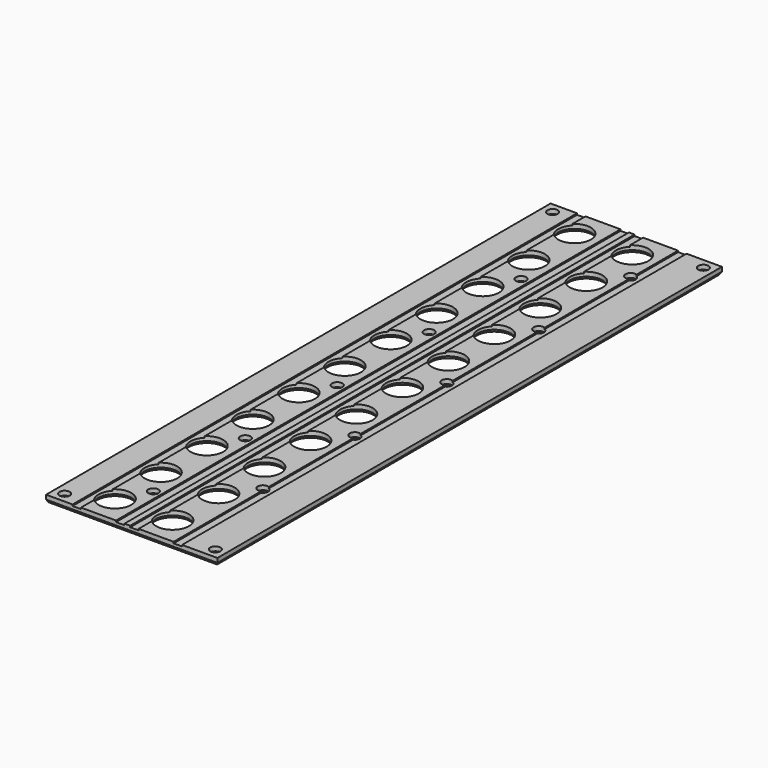
from build123d import *

# Parameters (mm, degrees)
F0_W     = 49.8404
F0_H     = 183.4444
F0_R     = 1.5
F1_DEPTH = 2
F2_R     = 4.75
F2_R_2   = 1.4732
F2_R_3   = 1.5
F3_DEPTH = 25
F4_W     = 2.45
F4_H     = 183.4444
F5_DEPTH = 0.4
F6_SIZE2 = 0.75
F6_SIZE  = 0.4330127019


with BuildPart() as f1:
    # F0 (on Top) → F1 (new body)
    with BuildSketch(Plane.XY):
        with Locations((21.9202, 88.7222)):
            Rectangle(F0_W, F0_H)
        Circle(F0_R, mode=Mode.SUBTRACT)
        with Locations((43.8404, 0)):
            Circle(F0_R, mode=Mode.SUBTRACT)
        with Locations((0, 177.4444)):
            Circle(F0_R, mode=Mode.SUBTRACT)
        with Locations((43.8404, 177.4444)):
            Circle(F0_R, mode=Mode.SUBTRACT)
    extrude(amount=-F1_DEPTH)

    # F2 (on face) → F3 (cut)
    with BuildSketch(Plane.XY):
        with Locations((10.5, 21.86895)):
            Circle(F2_R)
        with Locations((10.5, 5.15565)):
            Circle(F2_R)
        with Locations((27.264, 5.15565)):
            Circle(F2_R)
        with Locations((27.264, 21.86895)):
            Circle(F2_R)
        with Locations((10.5, 55.29555)):
            Circle(F2_R)
        with Locations((27.264, 55.29555)):
            Circle(F2_R)
        with Locations((10.5, 38.58225)):
            Circle(F2_R)
        with Locations((27.264, 38.58225)):
            Circle(F2_R)
        with Locations((10.5, 105.43545)):
            Circle(F2_R)
        with Locations((27.264, 105.43545)):
            Circle(F2_R)
        with Locations((27.264, 122.14875)):
            Circle(F2_R)
        with Locations((10.5, 122.14875)):
            Circle(F2_R)
        with Locations((27.264, 88.72215)):
            Circle(F2_R)
        with Locations((27.264, 72.00885)):
            Circle(F2_R)
        with Locations((10.5, 88.72215)):
            Circle(F2_R)
        with Locations((10.5, 72.00885)):
            Circle(F2_R)
        with Locations((27.264, 138.86205)):
            Circle(F2_R)
        with Locations((27.264, 172.28865)):
            Circle(F2_R)
        with Locations((27.264, 155.57535)):
            Circle(F2_R)
        with Locations((10.5, 138.86205)):
            Circle(F2_R)
        with Locations((10.5, 155.57535)):
            Circle(F2_R)
        with Locations((10.5, 172.28865)):
            Circle(F2_R)
        with Locations((43.8404, 0)):
            Circle(F2_R_2)
        with Locations((0, 177.4444)):
            Circle(F2_R_2)
        with Locations((33.5, 163.932)):
            Circle(F2_R_3)
        with Locations((15, 147.2187)):
            Circle(F2_R_3)
        with Locations((33.5, 130.5054)):
            Circle(F2_R_3)
        with Locations((15, 113.7921)):
            Circle(F2_R_3)
        with Locations((33.5, 97.0788)):
            Circle(F2_R_3)
        with Locations((15, 80.3655)):
            Circle(F2_R_3)
        with Locations((33.5, 63.6522)):
            Circle(F2_R_3)
        with Locations((15, 46.9389)):
            Circle(F2_R_3)
        with Locations((33.5, 30.2256)):
            Circle(F2_R_3)
        with Locations((15, 13.5123)):
            Circle(F2_R_3)
        Circle(F2_R_2)
        with Locations((43.8404, 177.4444)):
            Circle(F2_R_2)
    extrude(amount=-F3_DEPTH, mode=Mode.SUBTRACT)

    # F4 (on face) → F5 (cut)
    with BuildSketch(Plane.XY):
        with Locations((5.925, 88.7222)):
            Rectangle(F4_W, F4_H)
        with Locations((18.575, 88.7222)):
            Rectangle(F4_W, F4_H)
        with Locations((22.675, 88.7222)):
            Rectangle(F4_W, F4_H)
        with Locations((35.325, 88.7222)):
            Rectangle(F4_W, F4_H)
    extrude(amount=-F5_DEPTH, mode=Mode.SUBTRACT)

    # F6
    f6_edges = [f1.edges().sort_by_distance(p)[0] for p in [
        (46.8404, 88.7222, -2),
        (22.514, 5.15565, -2),
        (42.3404, 0, -2),
        (21.9202, -3, -2),
        (-1.5, 0, -2),
        (-3, 88.7222, -2),
        (5.75, 5.15565, -2),
        (13.5, 13.5123, -2),
        (22.514, 21.86895, -2),
        (32, 30.2256, -2),
        (5.75, 21.86895, -2),
        (5.75, 38.58225, -2),
        (22.514, 38.58225, -2),
        (22.514, 55.29555, -2),
        (32, 63.6522, -2),
        (22.514, 72.00885, -2),
        (5.75, 55.29555, -2),
        (13.5, 46.9389, -2),
        (5.75, 72.00885, -2),
        (13.5, 80.3655, -2),
        (22.514, 88.72215, -2),
        (32, 97.0788, -2),
        (5.75, 88.72215, -2),
        (22.514, 105.43545, -2),
        (5.75, 105.43545, -2),
        (13.5, 113.7921, -2),
        (22.514, 122.14875, -2),
        (32, 130.5054, -2),
        (5.75, 122.14875, -2),
        (22.514, 138.86205, -2),
        (5.75, 138.86205, -2),
        (22.514, 155.57535, -2),
        (32, 163.932, -2),
        (5.75, 155.57535, -2),
        (13.5, 147.2187, -2),
        (22.514, 172.28865, -2),
        (5.75, 172.28865, -2),
        (42.3404, 177.4444, -2),
        (21.9202, 180.4444, -2),
        (-1.5, 177.4444, -2),
    ]]
    f6_side = f1.faces().sort_by_distance((-1.099055, 88.7222, -2))[0]
    chamfer(f6_edges, length=F6_SIZE, length2=F6_SIZE2, reference=f6_side)


solid = f1.part
